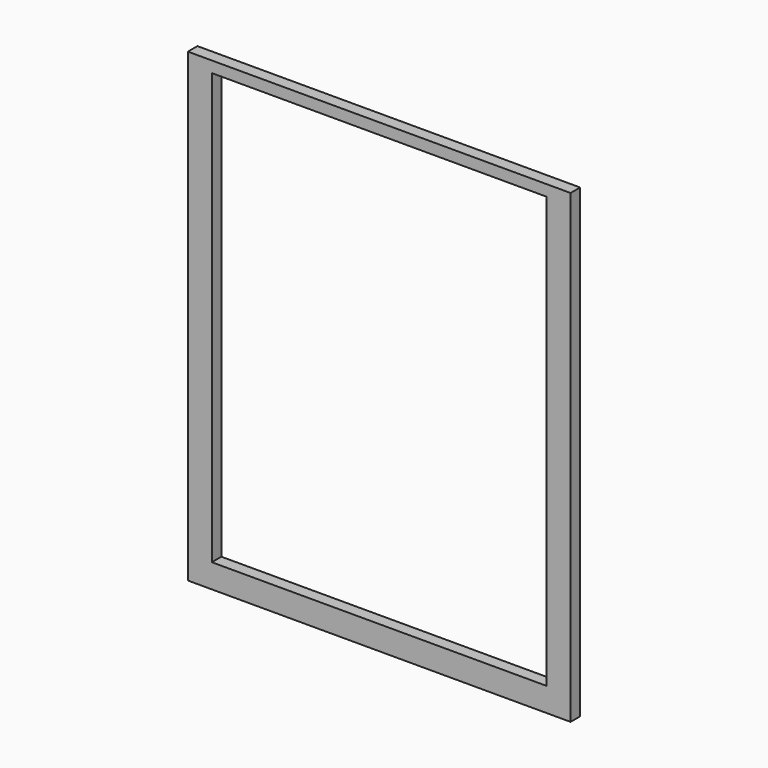
from build123d import *

# Parameters (mm, degrees)
F0_W     = 50.8
F0_H     = 61.80582
F0_W_2   = 44.45
F0_H_2   = 57.15762
F1_DEPTH = 1.5875
F2_R     = 0.79375
F3_DEPTH = 0.79375


with BuildPart() as f1:
    # F0 (on Front) → F1 (new body)
    with BuildSketch(Plane.XZ):
        Rectangle(F0_W, F0_H)
        with Locations((0, 0.8509)):
            Rectangle(F0_W_2, F0_H_2, mode=Mode.SUBTRACT)
    extrude(amount=F1_DEPTH)

    # F2 (on face) → F3 (cut)
    with BuildSketch(Plane(origin=(0, 0, 0), x_dir=(-1, 0, 0), z_dir=(0, 1, 0))):
        with Locations((-23.8125, 29.31541)):
            Circle(F2_R)
        with Locations((-23.8125, -29.31541)):
            Circle(F2_R)
        with Locations((23.8125, -29.31541)):
            Circle(F2_R)
        with Locations((23.8125, 29.31541)):
            Circle(F2_R)
    extrude(amount=-F3_DEPTH, mode=Mode.SUBTRACT)


solid = f1.part
